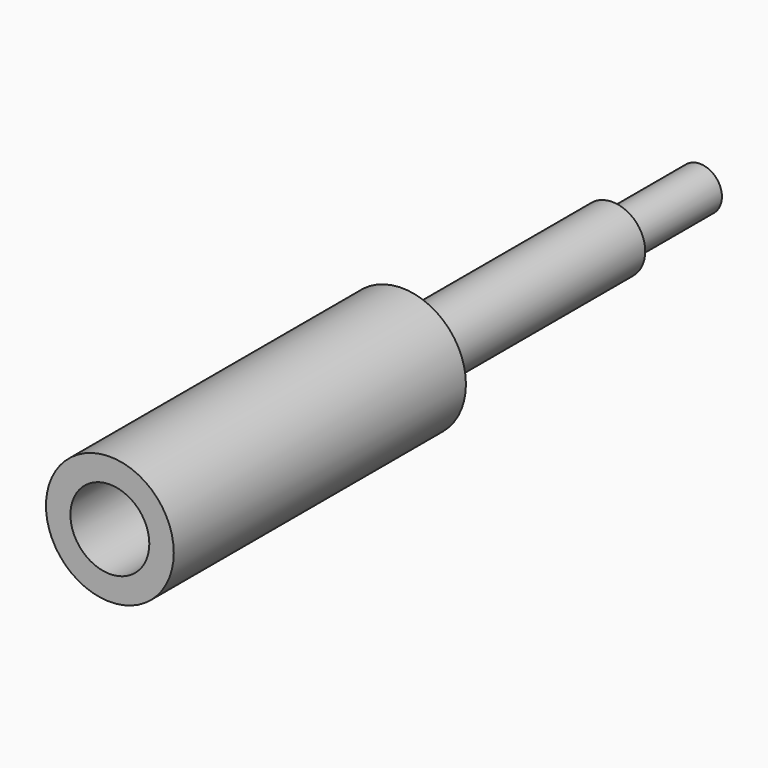
from build123d import *

# Parameters (mm, degrees)
F0_R      = 5.715
F1_DEPTH  = 45.72
F3_R      = 11.1125
F4_DEPTH  = 63.5
F6_R      = 6.858
F7_DEPTH  = 43.18
F9_R      = 3.81
F10_DEPTH = 19.05


with BuildPart() as f1:
    # F0 (on Front) → F1 (new body)
    with BuildSketch(Plane.XZ):
        Circle(F0_R)
    extrude(amount=F1_DEPTH)

    # F3 (on offset) → F4 (join)
    with BuildSketch(Plane.XZ.offset(45.72)):
        Circle(F3_R)
    extrude(amount=F4_DEPTH)

    # F6 (on offset) → F7 (cut)
    with BuildSketch(Plane.XZ.offset(109.22)):
        Circle(F6_R)
    extrude(amount=-F7_DEPTH, mode=Mode.SUBTRACT)

    # F9 (on offset) → F10 (join)
    with BuildSketch(Plane(origin=(0, 0, 0), x_dir=(1, 0, 0), z_dir=(0, 1, 0))):
        Circle(F9_R)
    extrude(amount=F10_DEPTH)


solid = f1.part
